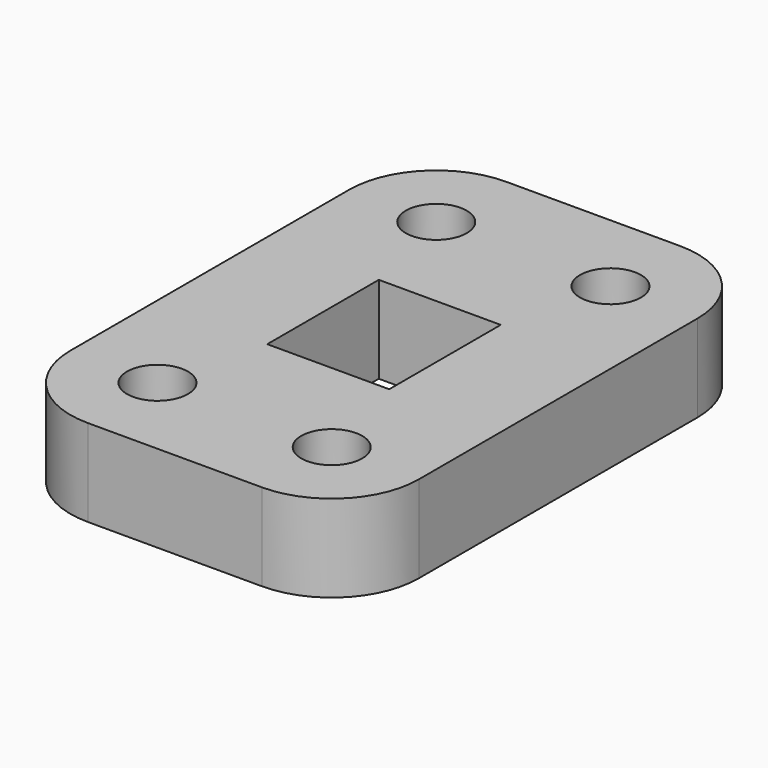
from build123d import *

# Parameters (mm, degrees)
F0_R     = 1.75
F0_W     = 7
F0_H     = 8
F1_DEPTH = 5


with BuildPart() as f1:
    # F0 (on Top) → F1 (new body)
    with BuildSketch(Plane.XY):
        with BuildLine():
            ThreePointArc((-5, 15), (-8.535534, 13.535534), (-10, 10))
            Line((-10, 10), (-10, -10))
            ThreePointArc((-10, -10), (-8.535534, -13.535534), (-5, -15))
            Line((-5, -15), (5, -15))
            ThreePointArc((5, -15), (8.535534, -13.535534), (10, -10))
            Line((10, -10), (10, 10))
            ThreePointArc((10, 10), (8.535534, 13.535534), (5, 15))
            Line((5, 15), (-5, 15))
        make_face()
        with Locations((-5, -10)):
            Circle(F0_R, mode=Mode.SUBTRACT)
        with Locations((5, -10)):
            Circle(F0_R, mode=Mode.SUBTRACT)
        with Locations((-5, 10)):
            Circle(F0_R, mode=Mode.SUBTRACT)
        Rectangle(F0_W, F0_H, mode=Mode.SUBTRACT)
        with Locations((5, 10)):
            Circle(F0_R, mode=Mode.SUBTRACT)
    extrude(amount=F1_DEPTH)


solid = f1.part
